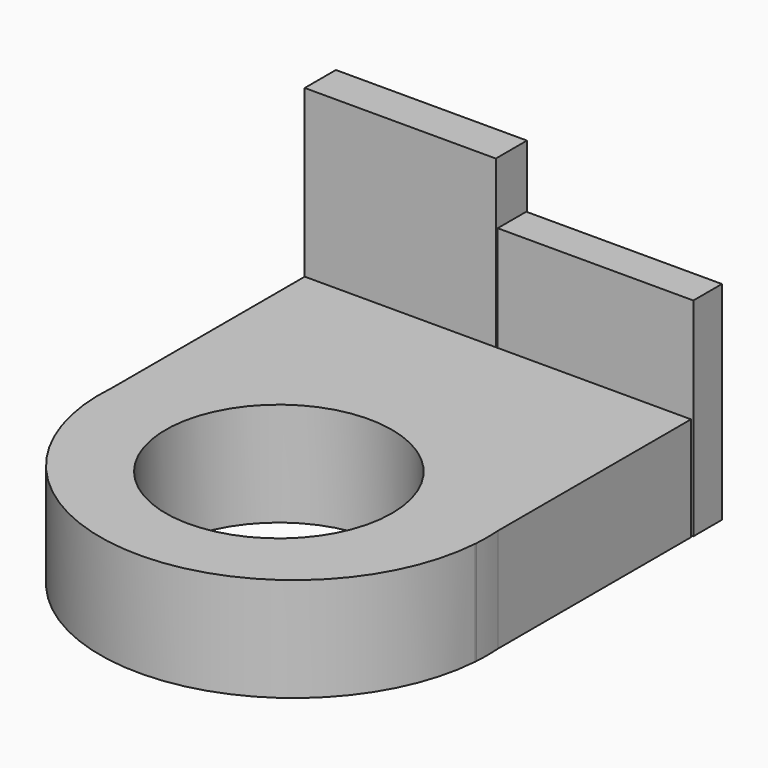
from build123d import *

# Parameters (mm, degrees)
F0_W     = 47.24663
F0_H     = 33.02
F2_DEPTH = 12.7
F1_R     = 23.687869
F3_DEPTH = 12.7
F4_R     = 13.83799
F5_DEPTH = 12.701
F6_W     = 23.371061
F6_H     = 4.762498
F8_DEPTH = 33.02
F7_W     = 24.04602
F7_H     = 4.372004
F9_DEPTH = 25.4


with BuildPart() as f2:
    # F0 (on Top) → F2 (new body)
    with BuildSketch(Plane.XY):
        with Locations((23.623315, 16.51)):
            Rectangle(F0_W, F0_H)
    extrude(amount=F2_DEPTH)

    # F1 (on Top) → F3 (join)
    with BuildSketch(Plane.XY):
        with Locations((23.615431, 1.851092)):
            Circle(F1_R)
    extrude(amount=F3_DEPTH)

    # F4 (on Top) → F5 (cut, through all)
    with BuildSketch(Plane.XY):
        with Locations((23.24864, 0)):
            Circle(F4_R)
    extrude(amount=F5_DEPTH, mode=Mode.SUBTRACT)

    # F6 (on Top) → F8 (join)
    with BuildSketch(Plane.XY):
        with Locations((11.68553, 35.401249)):
            Rectangle(F6_W, F6_H)
    extrude(amount=F8_DEPTH)

    # F7 (on Top) → F9 (join)
    with BuildSketch(Plane.XY):
        with Locations((35.279802, 35.49272)):
            Rectangle(F7_W, F7_H)
    extrude(amount=F9_DEPTH)


solid = f2.part
